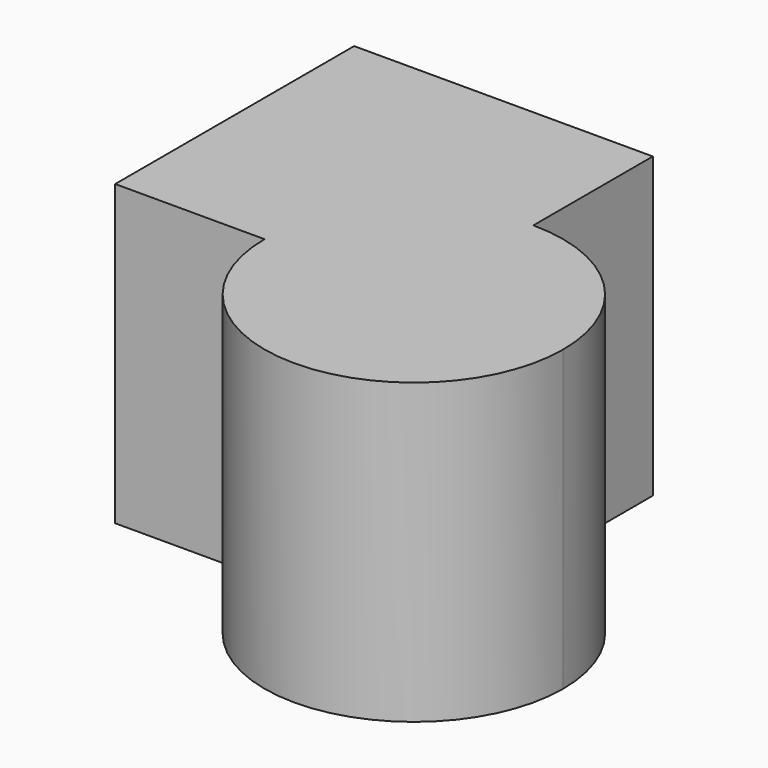
from build123d import *

# Parameters (mm, degrees)
F1_DEPTH = 50


with BuildPart() as f1:
    # F0 (on Top) → F1 (new body)
    with BuildSketch(Plane.XY):
        with BuildLine():
            Line((30.1903668791, 28.1092543399), (-19.8096331209, 28.1092543399))
            Line((-19.8096331209, 28.1092543399), (-19.8096331209, -21.8907456601))
            Line((-19.8096331209, -21.8907456601), (5.1903668791, -21.8907456601))
            ThreePointArc((5.1903668791, -21.8907456601), (12.5126973494, -4.2130761304), (30.1903668791, 3.1092543399))
            Line((30.1903668791, 3.1092543399), (30.1903668791, 28.1092543399))
        make_face()
        with BuildLine():
            ThreePointArc((55.1903668791, -21.8907456601), (47.8680364088, -4.2130761304), (30.1903668791, 3.1092543399))
            Line((30.1903668791, 3.1092543399), (30.1903668791, -21.8907456601))
            Line((30.1903668791, -21.8907456601), (5.1903668791, -21.8907456601))
            ThreePointArc((5.1903668791, -21.8907456601), (30.1903668791, -46.8907456601), (55.1903668791, -21.8907456601))
        make_face()
        with BuildLine():
            Line((30.1903668791, -21.8907456601), (30.1903668791, 3.1092543399))
            ThreePointArc((30.1903668791, 3.1092543399), (12.5126973494, -4.2130761304), (5.1903668791, -21.8907456601))
            Line((5.1903668791, -21.8907456601), (30.1903668791, -21.8907456601))
        make_face()
    extrude(amount=F1_DEPTH)


solid = f1.part
